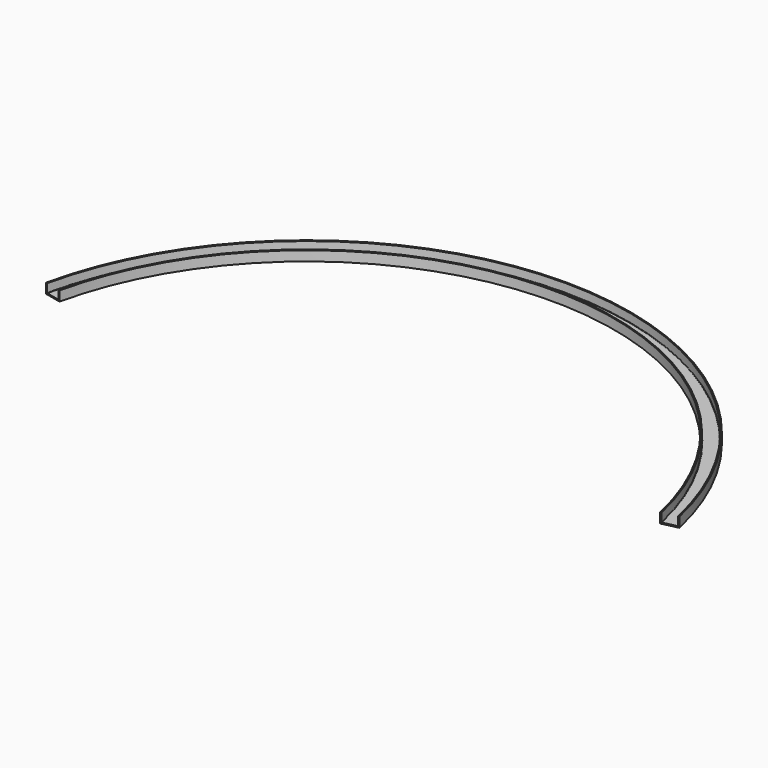
from build123d import *

# Parameters (mm, degrees)
F2_ANGLE_BACK = 77.5
F2_ANGLE      = 155
F3_SIZE       = 1
F4_R          = 1


with BuildPart() as f2:
    # F1 (on Right) → F2 (revolve)
    with BuildSketch(Plane.YZ, mode=Mode.PRIVATE) as f2_sk:
        Polygon((754.5, -22), (754.5, 0), (751.5, 0), (751.5, -25), (792.5, -25), (792.5, 0), (789.5, 0), (789.5, -22), align=None)
    revolve(f2_sk.sketch.rotate(Axis((0, 0, -26.4390427619), (0, 0, -1)), -F2_ANGLE_BACK), axis=Axis((0, 0, -26.4390427619), (0, 0, -1)), revolution_arc=F2_ANGLE)

    # F3
    f3_edges = [f2.edges().sort_by_distance(p)[0] for p in [
        (0, 789.5, 0),
        (0, 792.5, 0),
        (0, 751.5, 0),
        (0, 754.5, 0),
    ]]
    chamfer(f3_edges, length=F3_SIZE)

    # F4
    f4_edges = [f2.edges().sort_by_distance(p)[0] for p in [
        (0, 789.5, -22),
        (0, 754.5, -22),
    ]]
    fillet(f4_edges, radius=F4_R)


solid = f2.part
